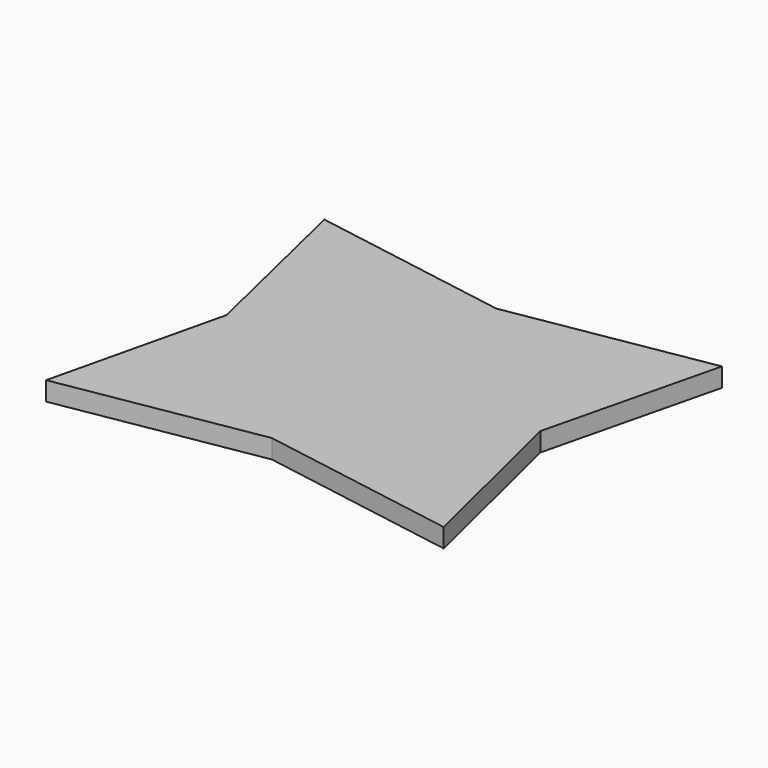
from build123d import *

# Parameters (mm, degrees)
F0_W     = 400
F0_H     = 350
F1_DEPTH = 19
F3_DEPTH = 19.001


with BuildPart() as f1:
    # F0 (on Top) → F1 (new body)
    with BuildSketch(Plane.XY):
        Rectangle(F0_W, F0_H)
    extrude(amount=F1_DEPTH)

    # F2 (on face) → F3 (cut, through all)
    with BuildSketch(Plane.XY.offset(19)):
        Polygon((-200, 175), (-200, -175), (-158.47078, 0), align=None)
        Polygon((0, -141.07433), (-200, -175), (200, -175), align=None)
        Polygon((157.383516, 0), (200, -175), (200, 175), align=None)
        Polygon((200, 175), (-200, 175), (0, 141.07433), align=None)
    extrude(amount=-F3_DEPTH, mode=Mode.SUBTRACT)


solid = f1.part
